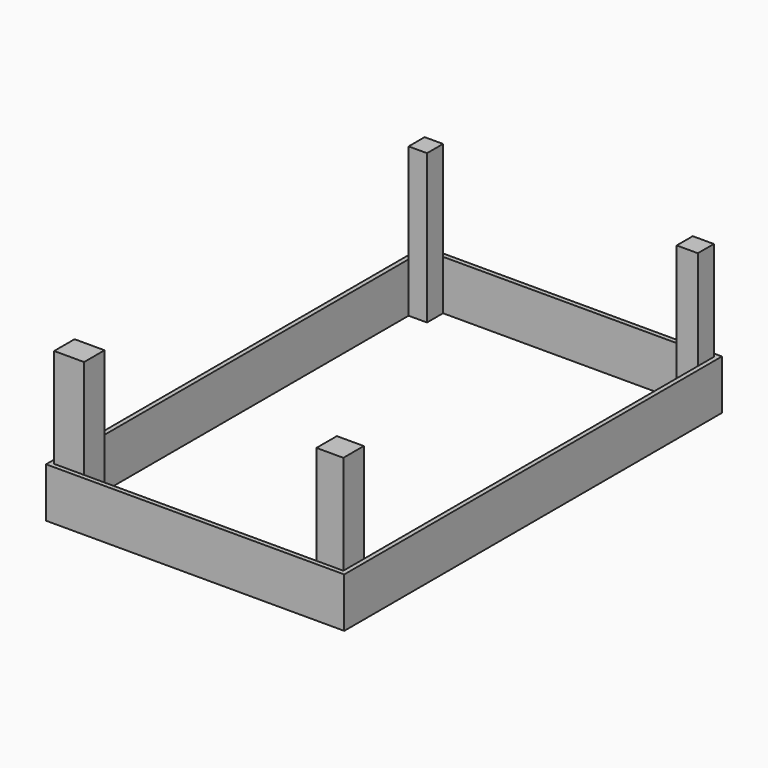
from build123d import *

# Parameters (mm, degrees)
F0_W     = 74.0577807724
F0_H     = 80.7005994424
F1_DEPTH = 600
F0_W_2   = 84.9921652377
F0_W_3   = 120.619170934
F0_H_2   = 102.7626535788
F0_W_4   = 108.2729050219
F0_W_5   = 1004.9500539899
F0_H_3   = 18
F0_W_6   = 935.1079240441
F2_DEPTH = 200


with BuildPart() as f1:
    # F0 (on Top) → F1 (new body)
    with BuildSketch(Plane.XY):
        with Locations((-2.9038081914, 1720.8870467)):
            Rectangle(F0_W, F0_H)
    extrude(amount=F1_DEPTH)


with BuildPart() as f1b:
    # F0 (on Top) → F1, piece 2 (new body)
    with BuildSketch(Plane.XY):
        with Locations((1081.5712188035, 1720.8870467)):
            Rectangle(F0_W_2, F0_H)
    extrude(amount=F1_DEPTH)


with BuildPart() as f1c:
    # F0 (on Top) → F1, piece 3 (new body)
    with BuildSketch(Plane.XY):
        with Locations((20.3768868893, -51.3813267894)):
            Rectangle(F0_W_3, F0_H_2)
    extrude(amount=F1_DEPTH)


with BuildPart() as f1d:
    # F0 (on Top) → F1, piece 4 (new body)
    with BuildSketch(Plane.XY):
        with Locations((1069.9308489114, -51.3813267894)):
            Rectangle(F0_W_4, F0_H_2)
    extrude(amount=F1_DEPTH)


with BuildPart() as f2:
    # F0 (on Top) → F2 (new body)
    with BuildSketch(Plane.XY):
        Polygon((34.1250821948, 1779.2373464212), (-57.9326985776, 1779.2373464212), (-57.9326985776, 1680.5367469788), (-39.9326985776, 1680.5367469788), (-39.9326985776, 1761.2373464212), (34.1250821948, 1761.2373464212), align=None)
        with Locations((536.6001091897, 1770.2373464212)):
            Rectangle(F0_W_5, F0_H_3)
        Polygon((-39.9326985776, 1680.5367469788), (-57.9326985776, 1680.5367469788), (-57.9326985776, 0), (-39.9326985776, 0), (-39.9326985776, 160.1675599813), (-39.9326985776, 280.4511785507), (-39.9326985776, 567.5797462463), (-39.9326985776, 695.6235766411), (-39.9326985776, 1126.3164281845), (-39.9326985776, 1219.4391489029), (-39.9326985776, 1461.0304832458), (-39.9326985776, 1519.7958946228), (-39.9326985776, 1628.6848783493), align=None)
        with Locations((1081.5712188035, 1770.2373464212)):
            Rectangle(F0_W_2, F0_H_3)
        Polygon((-39.9326985776, 0), (-57.9326985776, 0), (-57.9326985776, -120.7626535788), (80.6864723563, -120.7626535788), (80.6864723563, -102.7626535788), (-39.9326985776, -102.7626535788), align=None)
        Polygon((1142.0673014224, 1779.2373464212), (1124.0673014224, 1779.2373464212), (1124.0673014224, 1761.2373464212), (1124.0673014224, 1680.5367469788), (1142.0673014224, 1680.5367469788), align=None)
        with Locations((548.2404343784, -111.7626535788)):
            Rectangle(F0_W_6, F0_H_3)
        Polygon((1124.0673014224, 1680.5367469788), (1124.0673014224, 1628.6848783493), (1124.0673014224, 1519.7958946228), (1124.0673014224, 1461.0304832458), (1124.0673014224, 1219.4391489029), (1124.0673014224, 1126.3164281845), (1124.0673014224, 695.6235766411), (1124.0673014224, 567.5797462463), (1124.0673014224, 280.4511785507), (1124.0673014224, 160.1675599813), (1124.0673014224, 0), (1142.0673014224, 0), (1142.0673014224, 1680.5367469788), align=None)
        Polygon((1015.7943964005, -102.7626535788), (1015.7943964005, -120.7626535788), (1142.0673014224, -120.7626535788), (1142.0673014224, 0), (1124.0673014224, 0), (1124.0673014224, -102.7626535788), align=None)
    extrude(amount=F2_DEPTH)


solid = Compound([f1.part, f1b.part, f1c.part, f1d.part, f2.part])
